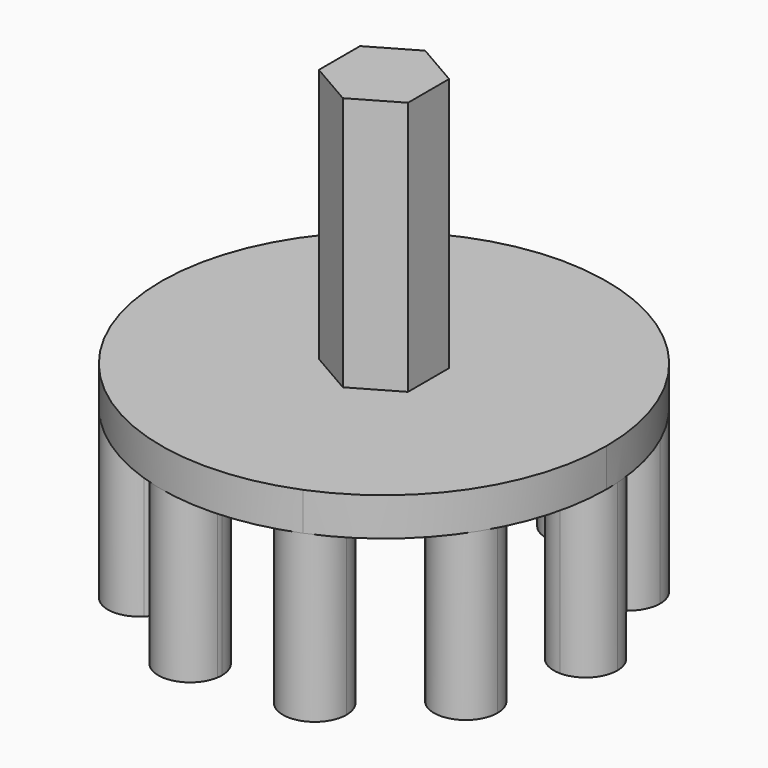
from build123d import *

# Parameters (mm, degrees)
F1_DEPTH = 13
F3_DEPTH = 3
F5_DEPTH = 20


with BuildPart() as f1:
    # F0 (on Top) → F1 (new body)
    with BuildSketch(Plane.XY):
        with BuildLine():
            ThreePointArc((-7.8930054645, 12.7554092344), (-5.664873312, 13.8891760144), (-3.2793835676, 14.6371323495))
            ThreePointArc((-3.2793835676, 14.6371323495), (-6.609018864, 16.2040386834), (-7.8930054645, 12.7554092344))
        make_face()
        with BuildLine():
            ThreePointArc((-3.164873312, 13.8891760144), (-3.1936666876, 14.2675116054), (-3.2793835676, 14.6371323495))
            ThreePointArc((-3.2793835676, 14.6371323495), (-5.664873312, 13.8891760144), (-7.8930054645, 12.7554092344))
            ThreePointArc((-7.8930054645, 12.7554092344), (-5.0819197895, 11.4580928832), (-3.164873312, 13.8891760144))
        make_face()
    extrude(amount=F1_DEPTH)



with BuildPart() as f1b:
    # F0 (on Top) → F1, piece 2 (new body)
    with BuildSketch(Plane.XY):
        with BuildLine():
            ThreePointArc((1.1118658775, 14.9587350491), (3.5808740473, 14.5663084224), (5.9504134936, 13.7692621173))
            ThreePointArc((5.9504134936, 13.7692621173), (6.0480433378, 14.1624821081), (6.0808740473, 14.5663084224))
            ThreePointArc((6.0808740473, 14.5663084224), (3.7776983033, 17.0585484214), (1.1118658775, 14.9587350491))
        make_face()
        with BuildLine():
            ThreePointArc((1.1118658775, 14.9587350491), (2.9840617061, 12.138590352), (5.9504134936, 13.7692621173))
            ThreePointArc((5.9504134936, 13.7692621173), (3.5808740473, 14.5663084224), (1.1118658775, 14.9587350491))
        make_face()
    extrude(amount=F1_DEPTH)


with BuildPart() as f1c:
    # F0 (on Top) → F1, piece 3 (new body)
    with BuildSketch(Plane.XY):
        with BuildLine():
            ThreePointArc((9.6920422452, 11.4483325038), (9.549041025, 8.0663384198), (12.9073548474, 7.6420017563))
            ThreePointArc((12.9073548474, 7.6420017563), (11.45884923, 9.6796061037), (9.6920422452, 11.4483325038))
        make_face()
        with BuildLine():
            ThreePointArc((9.6920422452, 11.4483325038), (11.45884923, 9.6796061037), (12.9073548474, 7.6420017563))
            ThreePointArc((12.9073548474, 7.6420017563), (13.6804774667, 8.5331472173), (13.95884923, 9.6796061037))
            ThreePointArc((13.95884923, 9.6796061037), (12.416184735, 11.9890451549), (9.6920422452, 11.4483325038))
        make_face()
    extrude(amount=F1_DEPTH)


with BuildPart() as f1d:
    # F0 (on Top) → F1, piece 4 (new body)
    with BuildSketch(Plane.XY):
        with BuildLine():
            ThreePointArc((14.9341253543, -1.4042435335), (14.9835222881, -0.7028939056), (15, 0))
            ThreePointArc((15, 0), (14.8921593202, 1.7954360982), (14.5701878956, 3.5650560565))
            ThreePointArc((14.5701878956, 3.5650560565), (12.4666112324, 0.9130193759), (14.9341253543, -1.4042435335))
        make_face()
        with BuildLine():
            ThreePointArc((14.5701878956, 3.5650560565), (14.8921593202, 1.7954360982), (15, 0))
            ThreePointArc((15, 0), (14.9835222881, -0.7028939056), (14.9341253543, -1.4042435335))
            ThreePointArc((14.9341253543, -1.4042435335), (16.7185522108, -0.6812448238), (17.4599334789, 1.0956232511))
            ThreePointArc((17.4599334789, 1.0956232511), (16.5840695634, 2.9961973694), (14.5701878956, 3.5650560565))
        make_face()
    extrude(amount=F1_DEPTH)


with BuildPart() as f1e:
    # F0 (on Top) → F1, piece 5 (new body)
    with BuildSketch(Plane.XY):
        with BuildLine():
            ThreePointArc((11.2565675682, -9.914115522), (12.7468316082, -7.9068504446), (13.8830169924, -5.6799506326))
            ThreePointArc((13.8830169924, -5.6799506326), (10.6223596735, -6.5890420372), (11.2565675682, -9.914115522))
        make_face()
        with BuildLine():
            ThreePointArc((15.2468316082, -7.9068504446), (14.8787865163, -6.601182696), (13.8830169924, -5.6799506326))
            ThreePointArc((13.8830169924, -5.6799506326), (12.7468316082, -7.9068504446), (11.2565675682, -9.914115522))
            ThreePointArc((11.2565675682, -9.914115522), (13.870294981, -10.1401954806), (15.2468316082, -7.9068504446))
        make_face()
    extrude(amount=F1_DEPTH)


with BuildPart() as f1f:
    # F0 (on Top) → F1, piece 6 (new body)
    with BuildSketch(Plane.XY):
        with BuildLine():
            ThreePointArc((3.2793835676, -14.6371323495), (5.664873312, -13.8891760144), (7.8930054645, -12.7554092344))
            ThreePointArc((7.8930054645, -12.7554092344), (4.72072776, -11.5743133453), (3.2793835676, -14.6371323495))
        make_face()
        with BuildLine():
            ThreePointArc((8.164873312, -13.8891760144), (8.0959564432, -13.3062224918), (7.8930054645, -12.7554092344))
            ThreePointArc((7.8930054645, -12.7554092344), (5.664873312, -13.8891760144), (3.2793835676, -14.6371323495))
            ThreePointArc((3.2793835676, -14.6371323495), (6.0432089031, -16.3603826388), (8.164873312, -13.8891760144))
        make_face()
    extrude(amount=F1_DEPTH)


with BuildPart() as f1g:
    # F0 (on Top) → F1, piece 7 (new body)
    with BuildSketch(Plane.XY):
        with BuildLine():
            ThreePointArc((-5.9504134936, -13.7692621173), (-4.1776863886, -16.9940264928), (-1.1118658775, -14.9587350491))
            ThreePointArc((-1.1118658775, -14.9587350491), (-3.5808740473, -14.5663084224), (-5.9504134936, -13.7692621173))
        make_face()
        with BuildLine():
            ThreePointArc((-5.9504134936, -13.7692621173), (-3.5808740473, -14.5663084224), (-1.1118658775, -14.9587350491))
            ThreePointArc((-1.1118658775, -14.9587350491), (-1.0886340484, -14.7631326784), (-1.0808740473, -14.5663084224))
            ThreePointArc((-1.0808740473, -14.5663084224), (-3.177047733, -12.099139132), (-5.9504134936, -13.7692621173))
        make_face()
    extrude(amount=F1_DEPTH)


with BuildPart() as f1h:
    # F0 (on Top) → F1, piece 8 (new body)
    with BuildSketch(Plane.XY):
        with BuildLine():
            ThreePointArc((-12.9073548474, -7.6420017563), (-13.3686574351, -11.2928737877), (-9.6920422452, -11.4483325038))
            ThreePointArc((-9.6920422452, -11.4483325038), (-11.45884923, -9.6796061037), (-12.9073548474, -7.6420017563))
        make_face()
        with BuildLine():
            ThreePointArc((-12.9073548474, -7.6420017563), (-11.45884923, -9.6796061037), (-9.6920422452, -11.4483325038))
            ThreePointArc((-9.6920422452, -11.4483325038), (-9.1494101789, -10.6369416086), (-8.95884923, -9.6796061037))
            ThreePointArc((-8.95884923, -9.6796061037), (-10.3123903436, -7.4579778671), (-12.9073548474, -7.6420017563))
        make_face()
    extrude(amount=F1_DEPTH)


with BuildPart() as f1i:
    # F0 (on Top) → F1, piece 9 (new body)
    with BuildSketch(Plane.XY):
        with BuildLine():
            ThreePointArc((-14.5701878956, -3.5650560565), (-14.9599334789, -1.0956232511), (-14.9341253543, 1.4042435335))
            ThreePointArc((-14.9341253543, 1.4042435335), (-17.4532557253, -1.2782271263), (-14.5701878956, -3.5650560565))
        make_face()
        with BuildLine():
            ThreePointArc((-12.4599334789, -1.0956232511), (-13.1830654039, 0.6629954809), (-14.9341253543, 1.4042435335))
            ThreePointArc((-14.9341253543, 1.4042435335), (-14.9599334789, -1.0956232511), (-14.5701878956, -3.5650560565))
            ThreePointArc((-14.5701878956, -3.5650560565), (-13.0593593606, -2.7197593356), (-12.4599334789, -1.0956232511))
        make_face()
    extrude(amount=F1_DEPTH)


with BuildPart() as f1j:
    # F0 (on Top) → F1, piece 10 (new body)
    with BuildSketch(Plane.XY):
        with BuildLine():
            ThreePointArc((-13.8830169924, 5.6799506326), (-12.7468316082, 7.9068504446), (-11.2565675682, 9.914115522))
            ThreePointArc((-11.2565675682, 9.914115522), (-14.8713035429, 9.224658852), (-13.8830169924, 5.6799506326))
        make_face()
        with BuildLine():
            ThreePointArc((-10.2468316082, 7.9068504446), (-10.5134865721, 9.0303138174), (-11.2565675682, 9.914115522))
            ThreePointArc((-11.2565675682, 9.914115522), (-12.7468316082, 7.9068504446), (-13.8830169924, 5.6799506326))
            ThreePointArc((-13.8830169924, 5.6799506326), (-11.4411638596, 5.7748955365), (-10.2468316082, 7.9068504446))
        make_face()
    extrude(amount=F1_DEPTH)


with BuildPart() as f1_1:
    add(f1.part)

    add(f1b.part)  # F3 merges F1b

    add(f1c.part)  # F3 merges F1c

    add(f1d.part)  # F3 merges F1d

    add(f1e.part)  # F3 merges F1e

    add(f1f.part)  # F3 merges F1f

    add(f1g.part)  # F3 merges F1g

    add(f1h.part)  # F3 merges F1h

    add(f1i.part)  # F3 merges F1i

    add(f1j.part)  # F3 merges F1j
    # F2 (on face) → F3 (join)
    with BuildSketch(Plane.XY.offset(13)):
        with BuildLine():
            ThreePointArc((6.6090187797, -16.2040387179), (14.5242526253, -9.7619714032), (17.5, 0))
            ThreePointArc((17.5, 0), (-14.5242526253, 9.7619714032), (6.6090187797, -16.2040387179))
        make_face()
        with BuildLine():
            ThreePointArc((8.164873312, -13.8891760144), (7.7397665224, -15.2837433901), (6.6090187797, -16.2040387179))
            ThreePointArc((6.6090187797, -16.2040387179), (3.5899801016, -12.4946086387), (8.164873312, -13.8891760144))
        make_face(mode=Mode.SUBTRACT)
        with BuildLine():
            ThreePointArc((8.164873312, -13.8891760144), (3.5899801016, -12.4946086387), (6.6090187797, -16.2040387179))
            ThreePointArc((6.6090187797, -16.2040387179), (7.7397665224, -15.2837433901), (8.164873312, -13.8891760144))
        make_face()
    extrude(amount=F3_DEPTH)

    # F4 (on face) → F5 (join)
    with BuildSketch(Plane.XY.offset(16)):
        Polygon((3.5, -2.0207259422), (3.5, 2.0207259422), (0, 4.0414518843), (-3.5, 2.0207259422), (-3.5, -2.0207259422), (0, -4.0414518843), align=None)
    extrude(amount=F5_DEPTH)


solid = f1_1.part
